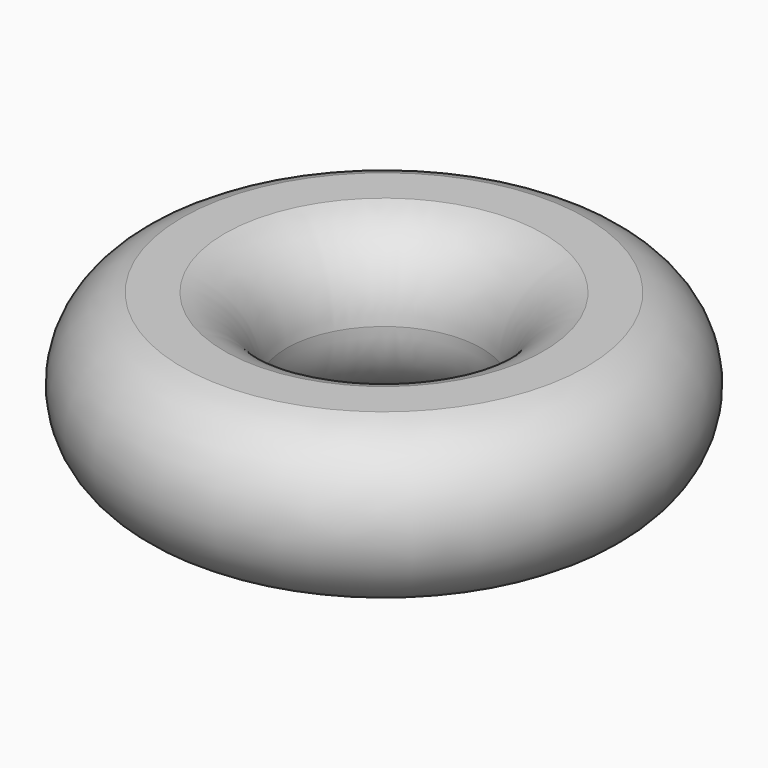
from build123d import *


with BuildPart() as f2:
    # F0 (on Front) → F2 (revolve)
    with BuildSketch(Plane.XZ):
        with BuildLine():
            ThreePointArc((-2.865943, -1.45), (-2.061285, -0.914854), (-1.75, 0))
            Line((-1.75, 0), (-3.25, 0))
            Line((-3.25, 0), (-3.25, 1.45))
            Line((-3.25, 1.45), (-3.634057, 1.45))
            ThreePointArc((-3.634057, 1.45), (-4.75, 0), (-3.634057, -1.45))
            Line((-3.634057, -1.45), (-2.865943, -1.45))
        make_face()
        with BuildLine():
            Line((-3.25, 0), (-1.75, 0))
            ThreePointArc((-1.75, 0), (-2.061285, 0.914854), (-2.865943, 1.45))
            Line((-2.865943, 1.45), (-3.25, 1.45))
            Line((-3.25, 1.45), (-3.25, 0))
        make_face()
    revolve(axis=Axis((0, 0, -0.170698), (0, 0, -1)))


solid = f2.part
